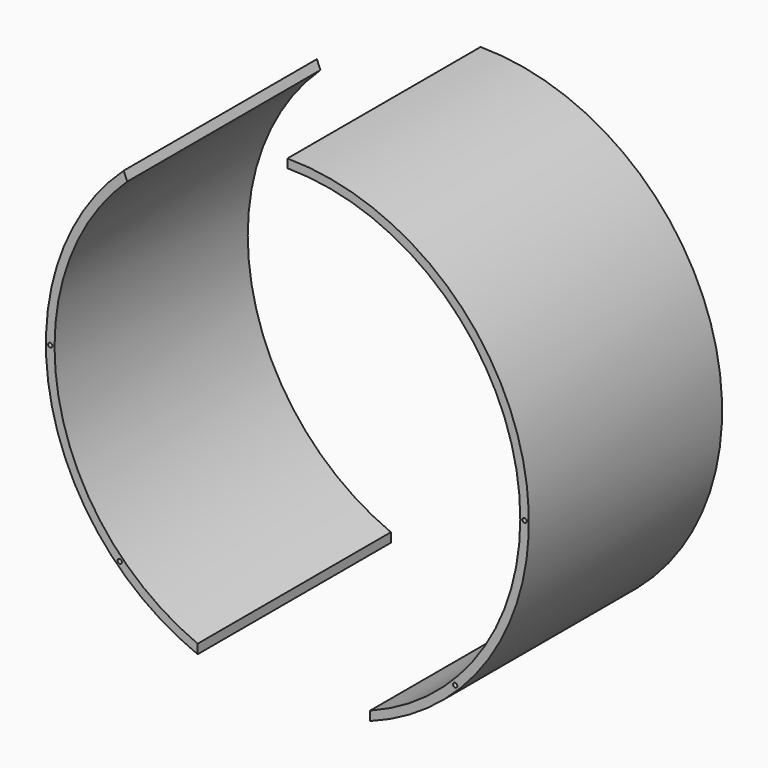
from build123d import *

# Parameters (mm, degrees)
F0_R     = 1.5875
F1_DEPTH = 177.8


with BuildPart() as f1:
    # F0 (on Front) → F1 (new body)
    with BuildSketch(Plane.XZ):
        with BuildLine():
            Line((-66.084858, -165.062508), (-66.084858, -158.202067))
            ThreePointArc((-66.084858, -158.202067), (-168.631859, -30.958011), (-117.968289, 124.412963))
            Line((-117.968289, 124.412963), (-120.493052, 130.745036))
            ThreePointArc((-120.493052, 130.745036), (-174.866678, -32.163412), (-66.084858, -165.062508))
        make_face()
        with Locations((-123.478522, -123.478522)):
            Circle(F0_R, mode=Mode.SUBTRACT)
        with Locations((-174.625, 0)):
            Circle(F0_R, mode=Mode.SUBTRACT)
        with BuildLine():
            Line((60.898303, -160.270082), (60.898303, -167.045613))
            ThreePointArc((60.898303, -167.045613), (175.090762, 30.920301), (0, 177.8))
            Line((0, 177.8), (0, 171.45))
            ThreePointArc((0, 171.45), (168.631859, 30.958011), (60.898303, -160.270082))
        make_face()
        with Locations((123.478522, -123.478522)):
            Circle(F0_R, mode=Mode.SUBTRACT)
        with Locations((174.625, 0)):
            Circle(F0_R, mode=Mode.SUBTRACT)
    extrude(amount=F1_DEPTH)


solid = f1.part
